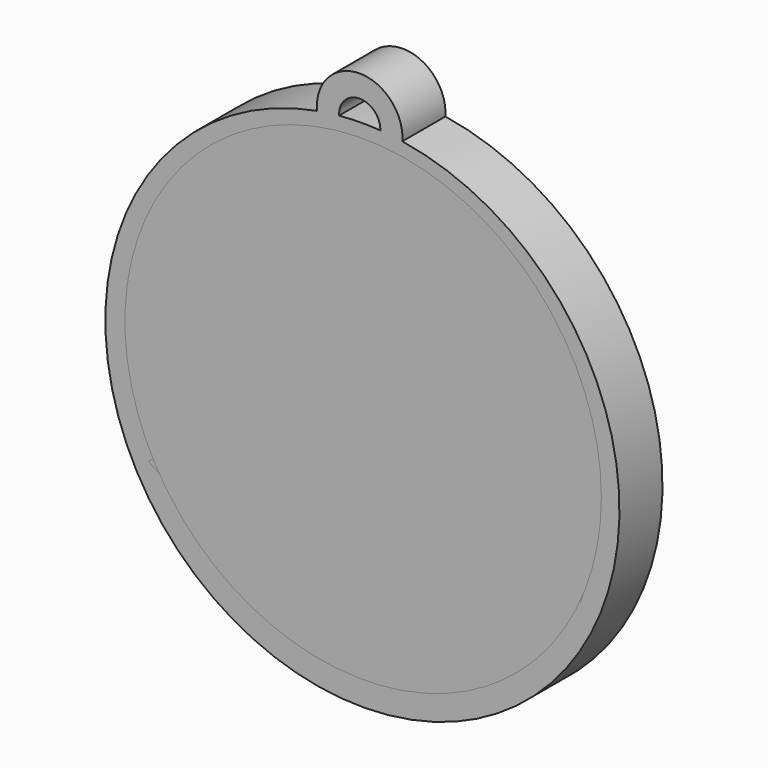
from build123d import *

# Parameters (mm, degrees)
F0_R     = 21.0173694248
F2_DEPTH = 5
F3_DEPTH = 3
F4_R     = 22.1369694457
F5_DEPTH = 2


with BuildPart() as f2:
    # F0 (on Front) → F2 (new body)
    with BuildSketch(Plane.XZ):
        with BuildLine():
            ThreePointArc((-25.2147613693, 45.3611427927), (-20.7448855599, -2.0381687537), (-17.2883954881, 45.4457990798))
            ThreePointArc((-17.2883954881, 45.4457990798), (-21.2975900226, 49.7115352336), (-25.2147613693, 45.3611427927))
        make_face()
        with Locations((-21, 21.848189415)):
            Circle(F0_R, mode=Mode.SUBTRACT)
        with BuildLine():
            ThreePointArc((-23.1723608778, 45.6369270477), (-21.2756166421, 47.6541682056), (-19.3362203485, 45.677898335))
            ThreePointArc((-19.3362203485, 45.677898335), (-21.2551144401, 45.7345475837), (-23.1723608778, 45.6369270477))
        make_face(mode=Mode.SUBTRACT)
    extrude(amount=-F2_DEPTH)


with BuildPart() as f2b:
    # F1 (on face) → F2, piece 2 (new body)
    with BuildSketch(Plane.XZ):
        with BuildLine():
            Line((-15.6434053378, 42.4352623522), (-15.6434053378, 41.0586307483))
            Line((-15.6434053378, 41.0586307483), (-21.2389320528, 22.9218076049))
            Line((-21.2389320528, 22.9218076049), (-27.0251246129, 24.9918799515))
            add(Edge.make_bspline(
                [(-27.0251246129, 24.9918799515), (-27.2667200019, 24.4750783506), (-27.5440850694, 23.9433288862), (-27.8527339783, 23.398512914)],
                knots=[0.5850241897, 0.5850241897, 0.5850241897, 0.5850241897, 0.6369170232, 0.6369170232, 0.6369170232, 0.6369170232], degree=3))
            Line((-27.8527339783, 23.398512914), (-21.7639160209, 21.220173091))
            Line((-21.7639160209, 21.220173091), (-27.3661202396, 3.0617061044))
            Line((-27.3661202396, 3.0617061044), (-27.7301800651, 2.3515297653))
            Line((-27.7301800651, 2.3515297653), (-26.2630893095, 1.8989066432))
            Line((-26.2630893095, 1.8989066432), (-26.2630893095, 2.7214017971))
            Line((-26.2630893095, 2.7214017971), (-20.675977002, 20.8309512574))
            Line((-20.675977002, 20.8309512574), (-16.5428058438, 19.3522650178))
            add(Edge.make_bspline(
                [(-15.8184717487, 20.9825798891), (-16.0888028731, 20.4550204602), (-16.3323949207, 19.9134852447), (-16.5428058438, 19.3522650178)],
                knots=[0.4780011516, 0.4780011516, 0.4780011516, 0.4780011516, 0.5285364589, 0.5285364589, 0.5285364589, 0.5285364589], degree=3))
            Line((-15.8184717487, 20.9825798891), (-20.150993034, 22.5325857713))
            Line((-20.150993034, 22.5325857713), (-14.5403744077, 40.7183264409))
            Line((-14.5403744077, 40.7183264409), (-13.9376726897, 41.9090140382))
            Line((-13.9376726897, 41.9090140382), (-15.6434053378, 42.4352623522))
        make_face()
        with BuildLine():
            add(Edge.make_bspline(
                [(-27.0251246129, 24.9918799515), (-27.2667200019, 24.4750783506), (-27.5440850694, 23.9433288862), (-27.8527339783, 23.398512914)],
                knots=[0.5850241897, 0.5850241897, 0.5850241897, 0.5850241897, 0.6369170232, 0.6369170232, 0.6369170232, 0.6369170232], degree=3))
            add(Edge.make_bspline(
                [(-26.9327240246, 40.8604158787), (-26.4461932855, 38.1720542595), (-25.4831391669, 32.8703496623), (-25.6253116841, 28.1230420347), (-26.9315363662, 25.1920764699), (-27.0251246129, 24.9918799515)],
                knots=[0, 0, 0, 0, 0.2873866411, 0.5649221532, 0.5850241897, 0.5850241897, 0.5850241897, 0.5850241897], degree=3))
            Line((-26.9327240246, 40.8604158787), (-26.9327240246, 43.088324368))
            Line((-26.9327240246, 43.088324368), (-28.561863665, 42.4352623522))
            Line((-28.561863665, 42.4352623522), (-28.561863665, 40.267697307))
            add(Edge.make_bspline(
                [(-28.561863665, 40.267697307), (-28.2332233479, 37.4932257691), (-27.6084806879, 32.2857996771), (-27.7056505928, 28.3536086922), (-28.8248751971, 25.9088704148), (-28.93806897, 25.676256279)],
                knots=[0, 0, 0, 0, 0.2568823312, 0.4805952008, 0.5037124373, 0.5037124373, 0.5037124373, 0.5037124373], degree=3))
            add(Edge.make_bspline(
                [(-28.93806897, 25.676256279), (-29.1875918662, 25.1634846718), (-29.4777928646, 24.6329834512), (-29.7976547361, 24.0943291412)],
                knots=[0.5037124373, 0.5037124373, 0.5037124373, 0.5037124373, 0.5546717761, 0.5546717761, 0.5546717761, 0.5546717761], degree=3))
            add(Edge.make_bspline(
                [(-29.7976547361, 24.0943291412), (-31.2374923714, 21.6696114203), (-35.1995176822, 16.6416461958), (-37.6393346001, 14.2831347624), (-38.816240489, 13.1410918814)],
                knots=[0.5546717761, 0.5546717761, 0.5546717761, 0.5546717761, 0.7840619611, 1, 1, 1, 1], degree=3))
            Line((-38.816240489, 13.1410918814), (-40.8904254436, 11.6106858477))
            Line((-40.8904254436, 11.6106858477), (-38.816240489, 10.1480129416))
            Line((-38.816240489, 10.1480129416), (-37.3893617116, 10.6880366863))
            add(Edge.make_bspline(
                [(-27.8527339783, 23.398512914), (-30.0122838985, 19.5865529315), (-33.7033340895, 15.1349221345), (-37.3893617116, 10.6880366863)],
                knots=[0.6369170232, 0.6369170232, 0.6369170232, 0.6369170232, 1, 1, 1, 1], degree=3))
        make_face()
        with BuildLine():
            add(Edge.make_bspline(
                [(-4.7326299883, 33.4018265599), (-6.3838063491, 32.0250727471), (-9.7867688662, 29.1885817162), (-13.6252095004, 24.6696939229), (-15.3884484127, 21.8217835363), (-15.8184717487, 20.9825798891)],
                knots=[0, 0, 0, 0, 0.1931958421, 0.3976132144, 0.4780011516, 0.4780011516, 0.4780011516, 0.4780011516], degree=3))
            add(Edge.make_bspline(
                [(-15.8184717487, 20.9825798891), (-16.0888028731, 20.4550204602), (-16.3323949207, 19.9134852447), (-16.5428058438, 19.3522650178)],
                knots=[0.4780011516, 0.4780011516, 0.4780011516, 0.4780011516, 0.5285364589, 0.5285364589, 0.5285364589, 0.5285364589], degree=3))
            add(Edge.make_bspline(
                [(-16.5428058438, 19.3522650178), (-16.8378280623, 18.5653646327), (-17.7887482068, 15.1488505296), (-17.0326071228, 8.1565953069), (-16.0108322366, 4.4090669931), (-15.5574461885, 2.745420875)],
                knots=[0.5285364589, 0.5285364589, 0.5285364589, 0.5285364589, 0.5993932294, 0.8217572748, 1, 1, 1, 1], degree=3))
            Line((-15.5574461885, 2.745420875), (-14.6284196526, 1.8989066432))
            Line((-14.6284196526, 1.8989066432), (-13.510598544, 1.8815415679))
            Line((-13.510598544, 1.8815415679), (-13.510598544, 3.4444969801))
            add(Edge.make_bspline(
                [(-14.069044194, 18.4672502987), (-14.3144930834, 17.7220644749), (-15.0270887125, 14.7189198371), (-14.8879048078, 8.5169626468), (-13.9376726897, 5.0225594813), (-13.510598544, 3.4444969801)],
                knots=[0.5582363622, 0.5582363622, 0.5582363622, 0.5582363622, 0.6285679089, 0.8314758152, 1, 1, 1, 1], degree=3))
            add(Edge.make_bspline(
                [(-13.4034524292, 20.1185808677), (-13.6632532189, 19.5761416352), (-13.8838117808, 19.029618166), (-14.069044194, 18.4672502987)],
                knots=[0.5051593971, 0.5051593971, 0.5051593971, 0.5051593971, 0.5582363622, 0.5582363622, 0.5582363622, 0.5582363622], degree=3))
            add(Edge.make_bspline(
                [(-3.4803220268, 31.3940724804), (-4.0596052372, 31.048753856), (-5.3792648724, 30.2642054545), (-7.6161489545, 27.8563879413), (-11.5665036402, 23.4480832146), (-13.0983628201, 20.7555788294), (-13.4034524292, 20.1185808677)],
                knots=[0, 0, 0, 0, 0.1061157447, 0.2393511298, 0.4428299848, 0.5051593971, 0.5051593971, 0.5051593971, 0.5051593971], degree=3))
            Line((-3.4803220268, 31.3940724804), (-1.3515079001, 32.1705370468))
            Line((-1.3515079001, 32.1705370468), (-2.5490200479, 34.5164759679))
            Line((-2.5490200479, 34.5164759679), (-4.7326299883, 33.4018265599))
        make_face()
        with BuildLine():
            add(Edge.make_bspline(
                [(-28.93806897, 25.676256279), (-29.1875918662, 25.1634846718), (-29.4777928646, 24.6329834512), (-29.7976547361, 24.0943291412)],
                knots=[0.5037124373, 0.5037124373, 0.5037124373, 0.5037124373, 0.5546717761, 0.5546717761, 0.5546717761, 0.5546717761], degree=3))
            Line((-28.93806897, 25.676256279), (-39.3682815074, 29.4077765003))
            Line((-39.3682815074, 29.4077765003), (-41.2232555875, 30.4750070098))
            Line((-41.2232555875, 30.4750070098), (-41.886651929, 28.3247354211))
            Line((-41.886651929, 28.3247354211), (-39.9663495654, 27.7322886022))
            Line((-39.9663495654, 27.7322886022), (-29.7976547361, 24.0943291412))
        make_face()
        with BuildLine():
            Line((-1.948548289, 16.0204662531), (-13.4034524292, 20.1185808677))
            add(Edge.make_bspline(
                [(-13.4034524292, 20.1185808677), (-13.6632532189, 19.5761416352), (-13.8838117808, 19.029618166), (-14.069044194, 18.4672502987)],
                knots=[0.5051593971, 0.5051593971, 0.5051593971, 0.5051593971, 0.5582363622, 0.5582363622, 0.5582363622, 0.5582363622], degree=3))
            Line((-14.069044194, 18.4672502987), (-2.5490200479, 14.3458383047))
            Line((-2.5490200479, 14.3458383047), (-0.7028685605, 13.1410918814))
            Line((-0.7028685605, 13.1410918814), (0, 15.4193050729))
            Line((0, 15.4193050729), (-1.948548289, 16.0204662531))
        make_face()
    extrude(amount=-F2_DEPTH)


with BuildPart() as f3:
    # F1 (on face) → F3 (new body)
    with BuildSketch(Plane.XZ):
        with BuildLine():
            Line((-15.6434053378, 42.4352623522), (-15.6434053378, 41.0586307483))
            Line((-15.6434053378, 41.0586307483), (-21.2389320528, 22.9218076049))
            Line((-21.2389320528, 22.9218076049), (-27.0251246129, 24.9918799515))
            add(Edge.make_bspline(
                [(-27.0251246129, 24.9918799515), (-27.2667200019, 24.4750783506), (-27.5440850694, 23.9433288862), (-27.8527339783, 23.398512914)],
                knots=[0.5850241897, 0.5850241897, 0.5850241897, 0.5850241897, 0.6369170232, 0.6369170232, 0.6369170232, 0.6369170232], degree=3))
            Line((-27.8527339783, 23.398512914), (-21.7639160209, 21.220173091))
            Line((-21.7639160209, 21.220173091), (-27.3661202396, 3.0617061044))
            Line((-27.3661202396, 3.0617061044), (-27.7301800651, 2.3515297653))
            Line((-27.7301800651, 2.3515297653), (-26.2630893095, 1.8989066432))
            Line((-26.2630893095, 1.8989066432), (-26.2630893095, 2.7214017971))
            Line((-26.2630893095, 2.7214017971), (-20.675977002, 20.8309512574))
            Line((-20.675977002, 20.8309512574), (-16.5428058438, 19.3522650178))
            add(Edge.make_bspline(
                [(-15.8184717487, 20.9825798891), (-16.0888028731, 20.4550204602), (-16.3323949207, 19.9134852447), (-16.5428058438, 19.3522650178)],
                knots=[0.4780011516, 0.4780011516, 0.4780011516, 0.4780011516, 0.5285364589, 0.5285364589, 0.5285364589, 0.5285364589], degree=3))
            Line((-15.8184717487, 20.9825798891), (-20.150993034, 22.5325857713))
            Line((-20.150993034, 22.5325857713), (-14.5403744077, 40.7183264409))
            Line((-14.5403744077, 40.7183264409), (-13.9376726897, 41.9090140382))
            Line((-13.9376726897, 41.9090140382), (-15.6434053378, 42.4352623522))
        make_face()
        with BuildLine():
            add(Edge.make_bspline(
                [(-27.0251246129, 24.9918799515), (-27.2667200019, 24.4750783506), (-27.5440850694, 23.9433288862), (-27.8527339783, 23.398512914)],
                knots=[0.5850241897, 0.5850241897, 0.5850241897, 0.5850241897, 0.6369170232, 0.6369170232, 0.6369170232, 0.6369170232], degree=3))
            add(Edge.make_bspline(
                [(-26.9327240246, 40.8604158787), (-26.4461932855, 38.1720542595), (-25.4831391669, 32.8703496623), (-25.6253116841, 28.1230420347), (-26.9315363662, 25.1920764699), (-27.0251246129, 24.9918799515)],
                knots=[0, 0, 0, 0, 0.2873866411, 0.5649221532, 0.5850241897, 0.5850241897, 0.5850241897, 0.5850241897], degree=3))
            Line((-26.9327240246, 40.8604158787), (-26.9327240246, 43.088324368))
            Line((-26.9327240246, 43.088324368), (-28.561863665, 42.4352623522))
            Line((-28.561863665, 42.4352623522), (-28.561863665, 40.267697307))
            add(Edge.make_bspline(
                [(-28.561863665, 40.267697307), (-28.2332233479, 37.4932257691), (-27.6084806879, 32.2857996771), (-27.7056505928, 28.3536086922), (-28.8248751971, 25.9088704148), (-28.93806897, 25.676256279)],
                knots=[0, 0, 0, 0, 0.2568823312, 0.4805952008, 0.5037124373, 0.5037124373, 0.5037124373, 0.5037124373], degree=3))
            add(Edge.make_bspline(
                [(-28.93806897, 25.676256279), (-29.1875918662, 25.1634846718), (-29.4777928646, 24.6329834512), (-29.7976547361, 24.0943291412)],
                knots=[0.5037124373, 0.5037124373, 0.5037124373, 0.5037124373, 0.5546717761, 0.5546717761, 0.5546717761, 0.5546717761], degree=3))
            add(Edge.make_bspline(
                [(-29.7976547361, 24.0943291412), (-31.2374923714, 21.6696114203), (-35.1995176822, 16.6416461958), (-37.6393346001, 14.2831347624), (-38.816240489, 13.1410918814)],
                knots=[0.5546717761, 0.5546717761, 0.5546717761, 0.5546717761, 0.7840619611, 1, 1, 1, 1], degree=3))
            Line((-38.816240489, 13.1410918814), (-40.8904254436, 11.6106858477))
            Line((-40.8904254436, 11.6106858477), (-38.816240489, 10.1480129416))
            Line((-38.816240489, 10.1480129416), (-37.3893617116, 10.6880366863))
            add(Edge.make_bspline(
                [(-27.8527339783, 23.398512914), (-30.0122838985, 19.5865529315), (-33.7033340895, 15.1349221345), (-37.3893617116, 10.6880366863)],
                knots=[0.6369170232, 0.6369170232, 0.6369170232, 0.6369170232, 1, 1, 1, 1], degree=3))
        make_face()
        with BuildLine():
            add(Edge.make_bspline(
                [(-4.7326299883, 33.4018265599), (-6.3838063491, 32.0250727471), (-9.7867688662, 29.1885817162), (-13.6252095004, 24.6696939229), (-15.3884484127, 21.8217835363), (-15.8184717487, 20.9825798891)],
                knots=[0, 0, 0, 0, 0.1931958421, 0.3976132144, 0.4780011516, 0.4780011516, 0.4780011516, 0.4780011516], degree=3))
            add(Edge.make_bspline(
                [(-15.8184717487, 20.9825798891), (-16.0888028731, 20.4550204602), (-16.3323949207, 19.9134852447), (-16.5428058438, 19.3522650178)],
                knots=[0.4780011516, 0.4780011516, 0.4780011516, 0.4780011516, 0.5285364589, 0.5285364589, 0.5285364589, 0.5285364589], degree=3))
            add(Edge.make_bspline(
                [(-16.5428058438, 19.3522650178), (-16.8378280623, 18.5653646327), (-17.7887482068, 15.1488505296), (-17.0326071228, 8.1565953069), (-16.0108322366, 4.4090669931), (-15.5574461885, 2.745420875)],
                knots=[0.5285364589, 0.5285364589, 0.5285364589, 0.5285364589, 0.5993932294, 0.8217572748, 1, 1, 1, 1], degree=3))
            Line((-15.5574461885, 2.745420875), (-14.6284196526, 1.8989066432))
            Line((-14.6284196526, 1.8989066432), (-13.510598544, 1.8815415679))
            Line((-13.510598544, 1.8815415679), (-13.510598544, 3.4444969801))
            add(Edge.make_bspline(
                [(-14.069044194, 18.4672502987), (-14.3144930834, 17.7220644749), (-15.0270887125, 14.7189198371), (-14.8879048078, 8.5169626468), (-13.9376726897, 5.0225594813), (-13.510598544, 3.4444969801)],
                knots=[0.5582363622, 0.5582363622, 0.5582363622, 0.5582363622, 0.6285679089, 0.8314758152, 1, 1, 1, 1], degree=3))
            add(Edge.make_bspline(
                [(-13.4034524292, 20.1185808677), (-13.6632532189, 19.5761416352), (-13.8838117808, 19.029618166), (-14.069044194, 18.4672502987)],
                knots=[0.5051593971, 0.5051593971, 0.5051593971, 0.5051593971, 0.5582363622, 0.5582363622, 0.5582363622, 0.5582363622], degree=3))
            add(Edge.make_bspline(
                [(-3.4803220268, 31.3940724804), (-4.0596052372, 31.048753856), (-5.3792648724, 30.2642054545), (-7.6161489545, 27.8563879413), (-11.5665036402, 23.4480832146), (-13.0983628201, 20.7555788294), (-13.4034524292, 20.1185808677)],
                knots=[0, 0, 0, 0, 0.1061157447, 0.2393511298, 0.4428299848, 0.5051593971, 0.5051593971, 0.5051593971, 0.5051593971], degree=3))
            Line((-3.4803220268, 31.3940724804), (-1.3515079001, 32.1705370468))
            Line((-1.3515079001, 32.1705370468), (-2.5490200479, 34.5164759679))
            Line((-2.5490200479, 34.5164759679), (-4.7326299883, 33.4018265599))
        make_face()
        with BuildLine():
            add(Edge.make_bspline(
                [(-28.93806897, 25.676256279), (-29.1875918662, 25.1634846718), (-29.4777928646, 24.6329834512), (-29.7976547361, 24.0943291412)],
                knots=[0.5037124373, 0.5037124373, 0.5037124373, 0.5037124373, 0.5546717761, 0.5546717761, 0.5546717761, 0.5546717761], degree=3))
            Line((-28.93806897, 25.676256279), (-39.3682815074, 29.4077765003))
            Line((-39.3682815074, 29.4077765003), (-41.2232555875, 30.4750070098))
            Line((-41.2232555875, 30.4750070098), (-41.886651929, 28.3247354211))
            Line((-41.886651929, 28.3247354211), (-39.9663495654, 27.7322886022))
            Line((-39.9663495654, 27.7322886022), (-29.7976547361, 24.0943291412))
        make_face()
        with BuildLine():
            Line((-1.948548289, 16.0204662531), (-13.4034524292, 20.1185808677))
            add(Edge.make_bspline(
                [(-13.4034524292, 20.1185808677), (-13.6632532189, 19.5761416352), (-13.8838117808, 19.029618166), (-14.069044194, 18.4672502987)],
                knots=[0.5051593971, 0.5051593971, 0.5051593971, 0.5051593971, 0.5582363622, 0.5582363622, 0.5582363622, 0.5582363622], degree=3))
            Line((-14.069044194, 18.4672502987), (-2.5490200479, 14.3458383047))
            Line((-2.5490200479, 14.3458383047), (-0.7028685605, 13.1410918814))
            Line((-0.7028685605, 13.1410918814), (0, 15.4193050729))
            Line((0, 15.4193050729), (-1.948548289, 16.0204662531))
        make_face()
    extrude(amount=-F3_DEPTH)


with BuildPart() as f5:
    # F4 (on Front) → F5 (new body)
    with BuildSketch(Plane.XZ):
        with Locations((-20.9328643978, 22.3543141037)):
            Circle(F4_R)
    extrude(amount=-F5_DEPTH)


solid = Compound([f2.part, f2b.part, f3.part, f5.part])
